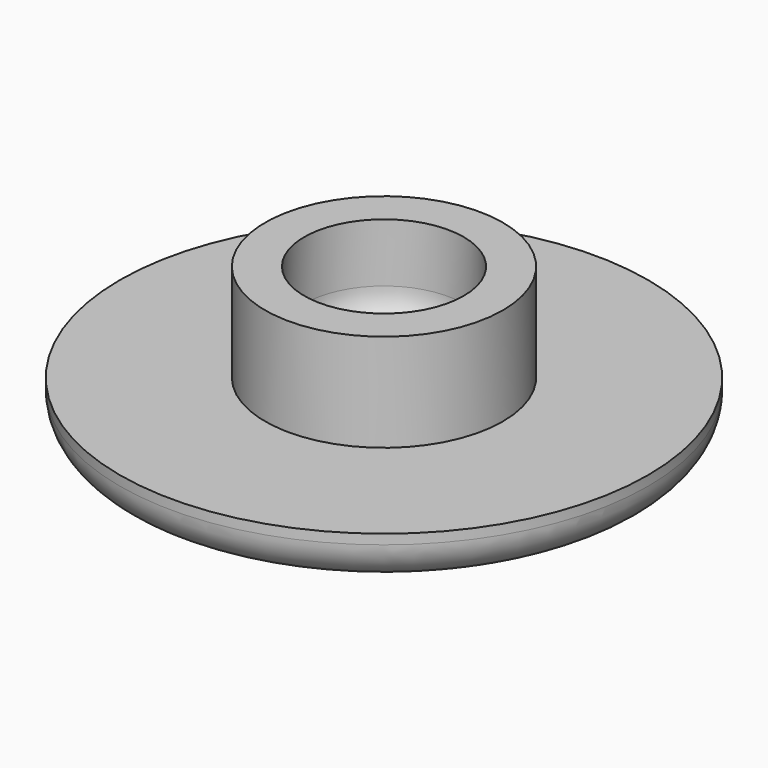
from build123d import *

# Parameters (mm, degrees)
F0_R     = 13.5
F1_DEPTH = 2.5
F2_R     = 6.075
F2_R_2   = 4.075
F3_DEPTH = 5
F4_R     = 2
F5_R     = 2


with BuildPart() as f1:
    # F0 (on Top) → F1 (new body)
    with BuildSketch(Plane.XY):
        Circle(F0_R)
    extrude(amount=F1_DEPTH)

    # F2 (on face) → F3 (join)
    with BuildSketch(Plane.XY.offset(2.5)):
        Circle(F2_R)
        Circle(F2_R_2, mode=Mode.SUBTRACT)
    extrude(amount=F3_DEPTH)

    # F4
    f4_edges = [f1.edges().sort_by_distance(p)[0] for p in [
        (-4.075, 0, 2.5),
    ]]
    fillet(f4_edges, radius=F4_R)

    # F5
    f5_edges = [f1.edges().sort_by_distance(p)[0] for p in [
        (-13.5, 0, 0),
    ]]
    fillet(f5_edges, radius=F5_R)


solid = f1.part
